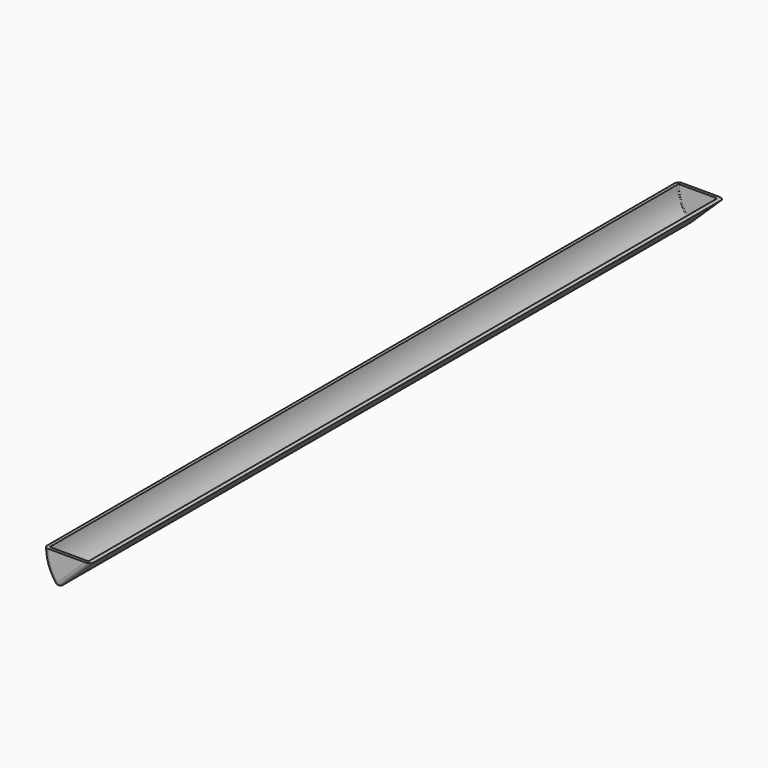
from build123d import *

# Parameters (mm, degrees)
F1_DEPTH = 205
F2_R     = 1
F3_T     = -0.8


with BuildPart() as f1:
    # F0 (on Front) → F1 (new body)
    with BuildSketch(Plane.XZ):
        with BuildLine():
            Line((0, 0), (-12, 0))
            ThreePointArc((-12, 0), (-11.122366, -4.504771), (-8.617839, -8.35062))
            Line((-8.617839, -8.35062), (0, 0))
        make_face()
    extrude(amount=F1_DEPTH)

    # F2
    f2_edges = [f1.edges().sort_by_distance(p)[0] for p in [
        (-8.617839, -102.5, -8.35062),
        (-4.30892, -205, -4.17531),
        (-11.122366, -205, -4.504771),
        (-4.30892, 0, -4.17531),
        (-11.122366, 0, -4.504771),
    ]]
    fillet(f2_edges, radius=F2_R)

    # F3
    f3_openings = [f1.faces().sort_by_distance(p)[0] for p in [
        (-6.000416, -102.5, 0),
    ]]
    offset(amount=F3_T, openings=f3_openings)


solid = f1.part
